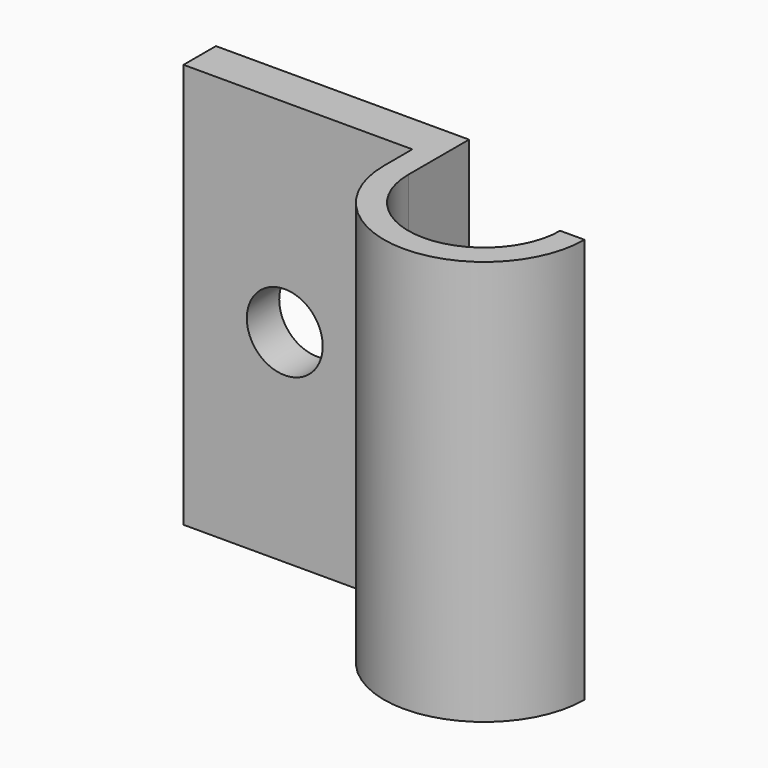
from build123d import *

# Parameters (mm, degrees)
F0_W     = 14.351
F0_H     = 2.54
F0_W_2   = 1.524
F0_H_2   = 2.2225
F1_DEPTH = 25.4
F3_DEPTH = 25.4


with BuildPart() as f1:
    # F0 (on Top) → F1 (new body)
    with BuildSketch(Plane.XY):
        with Locations((7.1755, -1.27)):
            Rectangle(F0_W, F0_H)
        with Locations((15.113, -1.27)):
            Rectangle(F0_W_2, F0_H)
        with Locations((15.113, -3.65125)):
            Rectangle(F0_W_2, F0_H_2)
        with BuildLine():
            Line((15.875, -4.7625), (14.351, -4.7625))
            ThreePointArc((14.351, -4.7625), (20.6375, -11.049), (26.924, -4.7625))
            Line((26.924, -4.7625), (25.4, -4.7625))
            ThreePointArc((25.4, -4.7625), (20.6375, -9.525), (15.875, -4.7625))
        make_face()
    extrude(amount=F1_DEPTH)

    # F2 (on face) → F3 (cut)
    with BuildSketch(Plane.XZ.offset(2.54)):
        with BuildLine():
            ThreePointArc((8.73125, 12.7), (6.35, 15.08125), (3.96875, 12.7))
            ThreePointArc((3.96875, 12.7), (6.35, 10.31875), (8.73125, 12.7))
        make_face()
    extrude(amount=-F3_DEPTH, mode=Mode.SUBTRACT)


solid = f1.part
